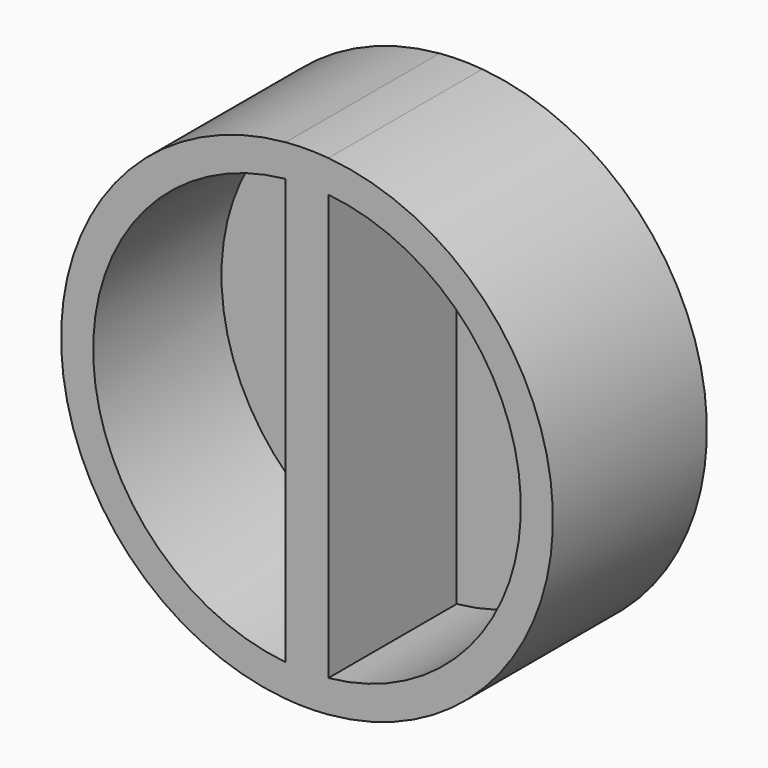
from build123d import *

# Parameters (mm, degrees)
F2_DEPTH = 57.15
F1_R     = 63.5
F3_DEPTH = 47.625
F4_DEPTH = 47.625


with BuildPart() as f2:
    # F0 (on Front) → F2 (new body)
    with BuildSketch(Plane.XZ):
        with BuildLine():
            Line((-6.35, 0), (-6.35, 72.7483891574))
            ThreePointArc((-6.35, 72.7483891574), (-73.025, 0), (-6.35, -72.7483891574))
            Line((-6.35, -72.7483891574), (-6.35, 0))
        make_face()
        with BuildLine():
            ThreePointArc((6.35, -72.7483891574), (53.8347442411, -49.3403581006), (73.025, 0))
            ThreePointArc((73.025, 0), (53.8347442411, 49.3403581006), (6.35, 72.7483891574))
            Line((6.35, 72.7483891574), (6.35, 0))
            Line((6.35, 0), (6.35, -72.7483891574))
        make_face()
        with BuildLine():
            Line((6.35, 0), (6.35, 72.7483891574))
            ThreePointArc((6.35, 72.7483891574), (0, 73.025), (-6.35, 72.7483891574))
            Line((-6.35, 72.7483891574), (-6.35, 0))
            Line((-6.35, 0), (0, 0))
            Line((0, 0), (6.35, 0))
        make_face()
        with BuildLine():
            ThreePointArc((-6.35, -72.7483891574), (0, -73.025), (6.35, -72.7483891574))
            Line((6.35, -72.7483891574), (6.35, 0))
            Line((6.35, 0), (0, 0))
            Line((0, 0), (-6.35, 0))
            Line((-6.35, 0), (-6.35, -72.7483891574))
        make_face()
    extrude(amount=-F2_DEPTH)

    # F1 (on Front) → F3 (cut)
    with BuildSketch(Plane.XZ):
        Circle(F1_R)
    extrude(amount=-F3_DEPTH, mode=Mode.SUBTRACT)

    # F0 (on Front) → F4 (join)
    with BuildSketch(Plane.XZ):
        with BuildLine():
            ThreePointArc((-6.35, -72.7483891574), (0, -73.025), (6.35, -72.7483891574))
            Line((6.35, -72.7483891574), (6.35, 0))
            Line((6.35, 0), (0, 0))
            Line((0, 0), (-6.35, 0))
            Line((-6.35, 0), (-6.35, -72.7483891574))
        make_face()
        with BuildLine():
            Line((6.35, 0), (6.35, 72.7483891574))
            ThreePointArc((6.35, 72.7483891574), (0, 73.025), (-6.35, 72.7483891574))
            Line((-6.35, 72.7483891574), (-6.35, 0))
            Line((-6.35, 0), (0, 0))
            Line((0, 0), (6.35, 0))
        make_face()
    extrude(amount=-F4_DEPTH)


solid = f2.part
